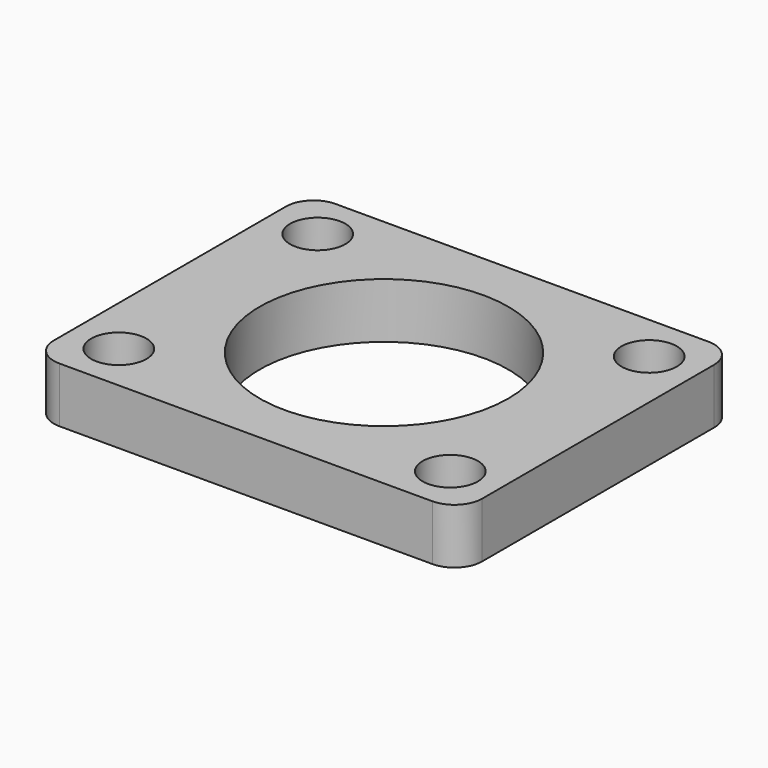
from build123d import *

# Parameters (mm, degrees)
F0_R     = 6.35
F0_R_2   = 28.575
F1_DEPTH = 12.7


with BuildPart() as f1:
    # F0 (on Top) → F1 (new body)
    with BuildSketch(Plane.XY):
        with BuildLine():
            ThreePointArc((49.2125, 33.3375), (47.352628, 37.827628), (42.8625, 39.6875))
            Line((42.8625, 39.6875), (-42.8625, 39.6875))
            ThreePointArc((-42.8625, 39.6875), (-47.352628, 37.827628), (-49.2125, 33.3375))
            Line((-49.2125, 33.3375), (-49.2125, -33.3375))
            ThreePointArc((-49.2125, -33.3375), (-47.352628, -37.827628), (-42.8625, -39.6875))
            Line((-42.8625, -39.6875), (42.8625, -39.6875))
            ThreePointArc((42.8625, -39.6875), (47.352628, -37.827628), (49.2125, -33.3375))
            Line((49.2125, -33.3375), (49.2125, 33.3375))
        make_face()
        with Locations((-38.0873, -28.5623)):
            Circle(F0_R, mode=Mode.SUBTRACT)
        with Locations((38.0873, -28.5623)):
            Circle(F0_R, mode=Mode.SUBTRACT)
        with Locations((-38.0873, 28.575)):
            Circle(F0_R, mode=Mode.SUBTRACT)
        Circle(F0_R_2, mode=Mode.SUBTRACT)
        with Locations((38.0873, 28.5623)):
            Circle(F0_R, mode=Mode.SUBTRACT)
        with BuildLine():
            ThreePointArc((49.2125, 33.3375), (47.352628, 37.827628), (42.8625, 39.6875))
            Line((42.8625, 39.6875), (-42.8625, 39.6875))
            ThreePointArc((-42.8625, 39.6875), (-47.352628, 37.827628), (-49.2125, 33.3375))
            Line((-49.2125, 33.3375), (-49.2125, -33.3375))
            ThreePointArc((-49.2125, -33.3375), (-47.352628, -37.827628), (-42.8625, -39.6875))
            Line((-42.8625, -39.6875), (42.8625, -39.6875))
            ThreePointArc((42.8625, -39.6875), (47.352628, -37.827628), (49.2125, -33.3375))
            Line((49.2125, -33.3375), (49.2125, 33.3375))
        make_face()
        with Locations((-38.0873, -28.5623)):
            Circle(F0_R, mode=Mode.SUBTRACT)
        with Locations((38.0873, -28.5623)):
            Circle(F0_R, mode=Mode.SUBTRACT)
        with Locations((-38.0873, 28.575)):
            Circle(F0_R, mode=Mode.SUBTRACT)
        Circle(F0_R_2, mode=Mode.SUBTRACT)
        with Locations((38.0873, 28.5623)):
            Circle(F0_R, mode=Mode.SUBTRACT)
    extrude(amount=F1_DEPTH)


solid = f1.part
